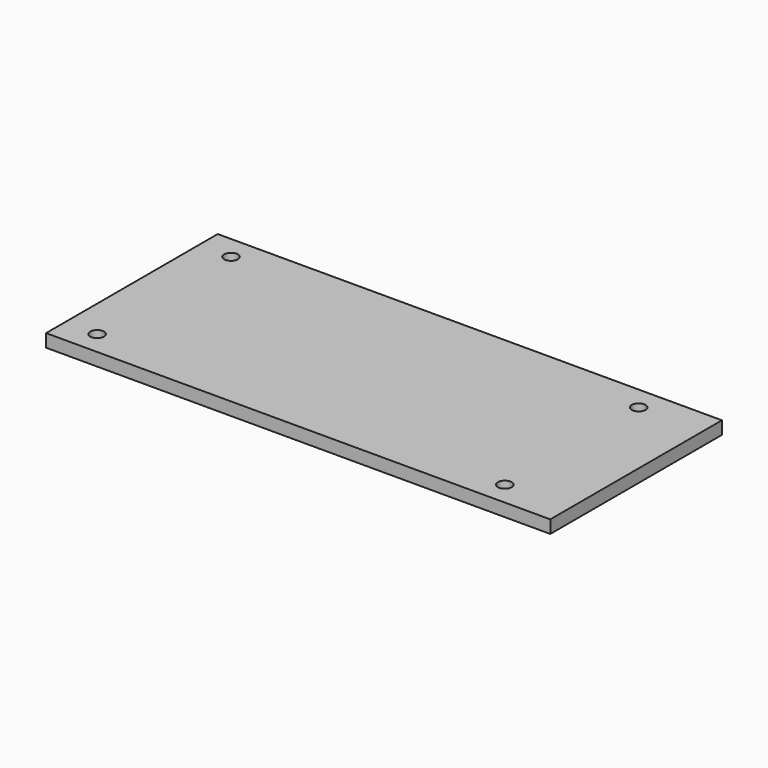
from build123d import *

# Parameters (mm, degrees)
SKETCH_W     = 117.5
SKETCH_H     = 50
PAD_DEPTH    = 3
SKETCH001_R  = 1.6
POCKET_DEPTH = 3.001


with BuildPart() as part:
    # Sketch → Pad (new body)
    with BuildSketch(Plane.XY):
        Rectangle(SKETCH_W, SKETCH_H)
    extrude(amount=PAD_DEPTH)

    # Sketch001 → Pocket (cut, through all)
    with BuildSketch(Plane.XY):
        with Locations((-51.25, 19.5)):
            Circle(SKETCH001_R)
        with Locations((43.75, 19.5)):
            Circle(SKETCH001_R)
        with Locations((-51.25, -19.5)):
            Circle(SKETCH001_R)
        with Locations((43.75, -19.5)):
            Circle(SKETCH001_R)
    extrude(amount=POCKET_DEPTH, mode=Mode.SUBTRACT)


solid = part.part
